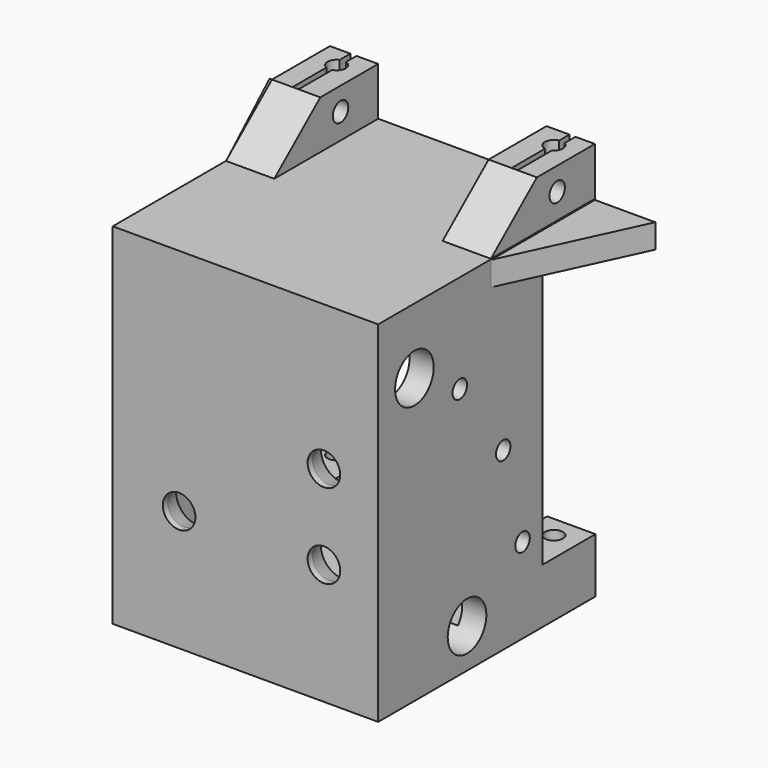
from build123d import *

# Parameters (mm, degrees)
CYLINDER144_R              = 1.6
CYLINDER144_DEPTH          = 15
FUSION079_ROLL_ANGLE       = -90
FUSION079_PLACEMENT_ANGLE  = -90
CYLINDER156_R              = 5.1
CYLINDER156_DEPTH          = 10
CYLINDER145_R              = 1.6
CYLINDER145_DEPTH          = 15
FUSION080_ROLL_ANGLE       = -90
FUSION080_PLACEMENT_ANGLE  = -90
CYLINDER147_R              = 4
CYLINDER147_DEPTH          = 44
CYLINDER152_R              = 1.5
CYLINDER152_DEPTH          = 55
CYLINDER165_R              = 1.5
CYLINDER165_DEPTH          = 55
CYLINDER160_R              = 1.5
CYLINDER160_DEPTH          = 55
CYLINDER166_R              = 4
CYLINDER166_DEPTH          = 44
BOX073_W                   = 1
BOX073_H                   = 15
BOX073_DEPTH               = 19
CYLINDER139_R              = 1.5
CYLINDER139_DEPTH          = 90
BOX072_W                   = 1
BOX072_H                   = 15
BOX072_DEPTH               = 19
CYLINDER138_R              = 1.5
CYLINDER138_DEPTH          = 90
CYLINDER140_R              = 1.6
CYLINDER140_DEPTH          = 10
EXTRUDE055_DEPTH           = 8
CYLINDER141_R              = 1.6
CYLINDER141_DEPTH          = 10
EXTRUDE056_DEPTH           = 8
BOX070_W                   = 4
BOX070_H                   = 45
BOX070_DEPTH               = 44
BOX069_W                   = 4
BOX069_H                   = 30
BOX069_DEPTH               = 54
BOX068_W                   = 4
BOX068_H                   = 30
BOX068_DEPTH               = 54
CYLINDER155_R              = 2.7
CYLINDER155_DEPTH          = 10
FUSION086_PLACEMENT_ANGLE  = 90
CYLINDER154_R              = 2.7
CYLINDER154_DEPTH          = 10
FUSION085_PLACEMENT_ANGLE  = 90
CYLINDER153_R              = 2.7
CYLINDER153_DEPTH          = 10
FUSION084_PLACEMENT_ANGLE  = 90
BOX067_W                   = 44
BOX067_H                   = 4
BOX067_DEPTH               = 54
CYLINDER164_R              = 12
CYLINDER164_DEPTH          = 10
BOX074_W                   = 8
BOX074_H                   = 12
BOX074_DEPTH               = 71
EXTRUDE057_DEPTH           = 8
EXTRUDE058_DEPTH           = 8
BOX071_W                   = 4
BOX071_H                   = 45
BOX071_DEPTH               = 44
EXTRUDE065_DEPTH           = 4
EXTRUDE066_DEPTH           = 4
EXTRUDE066_PLACEMENT_ANGLE = 180


with BuildPart() as cylinder144:
    # Cylinder144 → Cylinder144 (new body)
    with BuildSketch(Plane.XY):
        Circle(CYLINDER144_R)
    extrude(amount=CYLINDER144_DEPTH)


with BuildPart() as fusion079:
    # Cone015 → Cone015 (revolve)
    with BuildSketch(Plane(origin=(0, 0, 15), x_dir=(1, 0, 0), z_dir=(0, -1, 0))):
        Polygon((0, 0), (1.6, 0), (3, 3.5), (0, 3.5), align=None)
    revolve(axis=Axis((0, 0, 15), (0, 0, 1)))

    # Fusion079: union Cylinder144
    add(cylinder144.part)


with BuildPart() as fusion079_1:
    # Fusion079 roll: moved
    add(fusion079.part.rotate(Axis((0, 0, 0), (1, 0, 0)), FUSION079_ROLL_ANGLE))


with BuildPart() as fusion079_2:
    # Fusion079 placement: moved
    add(fusion079_1.part.moved(Location((80.6, 50.5, 66))).rotate(Axis((80.6, 50.5, 66), (0, 0, 1)), FUSION079_PLACEMENT_ANGLE))


with BuildPart() as cylinder156:
    # Cylinder156 → Cylinder156 (new body)
    with BuildSketch(Plane(origin=(91.8, 55.9, 45.7), x_dir=(0, 0, -1), z_dir=(1, 0, 0))):
        Circle(CYLINDER156_R)
    extrude(amount=CYLINDER156_DEPTH)


with BuildPart() as cylinder145:
    # Cylinder145 → Cylinder145 (new body)
    with BuildSketch(Plane.XY):
        Circle(CYLINDER145_R)
    extrude(amount=CYLINDER145_DEPTH)


with BuildPart() as fusion080:
    # Cone016 → Cone016 (revolve)
    with BuildSketch(Plane(origin=(0, 0, 15), x_dir=(1, 0, 0), z_dir=(0, -1, 0))):
        Polygon((0, 0), (1.6, 0), (3, 3.5), (0, 3.5), align=None)
    revolve(axis=Axis((0, 0, 15), (0, 0, 1)))

    # Fusion080: union Cylinder145
    add(cylinder145.part)


with BuildPart() as fusion080_1:
    # Fusion080 roll: moved
    add(fusion080.part.rotate(Axis((0, 0, 0), (1, 0, 0)), FUSION080_ROLL_ANGLE))


with BuildPart() as fusion080_2:
    # Fusion080 placement: moved
    add(fusion080_1.part.moved(Location((80.6, 61.3, 25.4))).rotate(Axis((80.6, 61.3, 25.4), (0, 0, 1)), FUSION080_PLACEMENT_ANGLE))


with BuildPart() as cylinder147:
    # Cylinder147 → Cylinder147 (new body)
    with BuildSketch(Plane(origin=(99, 61.4, 25.5), x_dir=(0, 0, -1), z_dir=(1, 0, 0))):
        Circle(CYLINDER147_R)
    extrude(amount=CYLINDER147_DEPTH)


with BuildPart() as cylinder152:
    # Cylinder152 → Cylinder152 (new body)
    with BuildSketch(Plane(origin=(92.7, 72.9, 33.1), x_dir=(0, 0, -1), z_dir=(1, 0, 0))):
        Circle(CYLINDER152_R)
    extrude(amount=CYLINDER152_DEPTH)


with BuildPart() as cylinder165:
    # Cylinder165 → Cylinder165 (new body)
    with BuildSketch(Plane(origin=(92.7, 68.9, 48.1), x_dir=(0, 0, -1), z_dir=(1, 0, 0))):
        Circle(CYLINDER165_R)
    extrude(amount=CYLINDER165_DEPTH)


with BuildPart() as cylinder160:
    # Cylinder160 → Cylinder160 (new body)
    with BuildSketch(Plane(origin=(92.1, 59.9, 60.7), x_dir=(0, 0, -1), z_dir=(1, 0, 0))):
        Circle(CYLINDER160_R)
    extrude(amount=CYLINDER160_DEPTH)


with BuildPart() as cylinder166:
    # Cylinder166 → Cylinder166 (new body)
    with BuildSketch(Plane(origin=(99, 50.5, 66.1), x_dir=(0, 0, -1), z_dir=(1, 0, 0))):
        Circle(CYLINDER166_R)
    extrude(amount=CYLINDER166_DEPTH)


with BuildPart() as box073:
    # Box073 → Box073 (new body)
    with BuildSketch(Plane(origin=(98.4, 76, 70.7), x_dir=(1, 0, 0), z_dir=(0, 0, 1))):
        with Locations((0.5, 7.5)):
            Rectangle(BOX073_W, BOX073_H)
    extrude(amount=BOX073_DEPTH)


with BuildPart() as cylinder139:
    # Cylinder139 → Cylinder139 (new body)
    with BuildSketch(Plane(origin=(99, 84.4, 19), x_dir=(1, 0, 0), z_dir=(0, 0, 1))):
        Circle(CYLINDER139_R)
    extrude(amount=CYLINDER139_DEPTH)


with BuildPart() as box072:
    # Box072 → Box072 (new body)
    with BuildSketch(Plane(origin=(134.7, 76, 70.7), x_dir=(1, 0, 0), z_dir=(0, 0, 1))):
        with Locations((0.5, 7.5)):
            Rectangle(BOX072_W, BOX072_H)
    extrude(amount=BOX072_DEPTH)


with BuildPart() as cylinder138:
    # Cylinder138 → Cylinder138 (new body)
    with BuildSketch(Plane(origin=(135, 84.4, 19), x_dir=(1, 0, 0), z_dir=(0, 0, 1))):
        Circle(CYLINDER138_R)
    extrude(amount=CYLINDER138_DEPTH)


with BuildPart() as cylinder140:
    # Cylinder140 → Cylinder140 (new body)
    with BuildSketch(Plane(origin=(129.8, 75.2, 81.2), x_dir=(0, 0, -1), z_dir=(1, 0, 0))):
        Circle(CYLINDER140_R)
    extrude(amount=CYLINDER140_DEPTH)


with BuildPart() as cut143:
    # Sketch045 → Extrude055 (new body)
    with BuildSketch(Plane.YZ):
        Polygon((83, 77), (83, 85), (71, 85), (61.465971, 77), align=None)
    extrude(amount=EXTRUDE055_DEPTH)


with BuildPart() as cut143_1:
    # Extrude055 placement: moved
    add(cut143.part.moved(Location((130.9, 0, 0))))

    # Cut143: cut Cylinder140
    add(cylinder140.part, mode=Mode.SUBTRACT)


with BuildPart() as cut143_2:
    # Cut143 placement: moved
    add(cut143_1.part.moved(Location((0, 5, 0))))


with BuildPart() as cylinder141:
    # Cylinder141 → Cylinder141 (new body)
    with BuildSketch(Plane(origin=(93.8, 75.2, 81.2), x_dir=(0, 0, -1), z_dir=(1, 0, 0))):
        Circle(CYLINDER141_R)
    extrude(amount=CYLINDER141_DEPTH)


with BuildPart() as cut142:
    # Sketch046 → Extrude056 (new body)
    with BuildSketch(Plane.YZ):
        Polygon((83, 77), (83, 85), (71, 85), (61.465971, 77), align=None)
    extrude(amount=EXTRUDE056_DEPTH)


with BuildPart() as cut142_1:
    # Extrude056 placement: moved
    add(cut142.part.moved(Location((95, 0, 0))))

    # Cut142: cut Cylinder141
    add(cylinder141.part, mode=Mode.SUBTRACT)


with BuildPart() as cut142_2:
    # Cut142 placement: moved
    add(cut142_1.part.moved(Location((0, 5, 0))))


with BuildPart() as box070:
    # Box070 → Box070 (new body)
    with BuildSketch(Plane(origin=(139, 43, 73), x_dir=(0, 0, 1), z_dir=(-1, 0, 0))):
        with Locations((2, 22.5)):
            Rectangle(BOX070_W, BOX070_H)
    extrude(amount=BOX070_DEPTH)


with BuildPart() as box069:
    # Box069 → Box069 (new body)
    with BuildSketch(Plane(origin=(135, 47, 19), x_dir=(1, 0, 0), z_dir=(0, 0, 1))):
        with Locations((2, 15)):
            Rectangle(BOX069_W, BOX069_H)
    extrude(amount=BOX069_DEPTH)


with BuildPart() as box068:
    # Box068 → Box068 (new body)
    with BuildSketch(Plane(origin=(95, 47, 19), x_dir=(1, 0, 0), z_dir=(0, 0, 1))):
        with Locations((2, 15)):
            Rectangle(BOX068_W, BOX068_H)
    extrude(amount=BOX068_DEPTH)


with BuildPart() as cone018:
    # Cone018 → Cone018 (revolve)
    with BuildSketch(Plane(origin=(0, 0, 10), x_dir=(1, 0, 0), z_dir=(0, -1, 0))):
        Polygon((0, 0), (2.7, 0), (3.7, 3), (0, 3), align=None)
    revolve(axis=Axis((0, 0, 10), (0, 0, 1)))


with BuildPart() as fusion086:
    # Cylinder155 → Cylinder155 (new body)
    with BuildSketch(Plane.XY):
        Circle(CYLINDER155_R)
    extrude(amount=CYLINDER155_DEPTH)

    # Fusion086: union Cone018
    add(cone018.part)


with BuildPart() as fusion086_1:
    # Fusion086 placement: moved
    add(fusion086.part.moved(Location((106, 34, 39))).rotate(Axis((106, 34, 39), (-1, 0, 0)), FUSION086_PLACEMENT_ANGLE))


with BuildPart() as cone017:
    # Cone017 → Cone017 (revolve)
    with BuildSketch(Plane(origin=(0, 0, 10), x_dir=(1, 0, 0), z_dir=(0, -1, 0))):
        Polygon((0, 0), (2.7, 0), (3.7, 3), (0, 3), align=None)
    revolve(axis=Axis((0, 0, 10), (0, 0, 1)))


with BuildPart() as fusion085:
    # Cylinder154 → Cylinder154 (new body)
    with BuildSketch(Plane.XY):
        Circle(CYLINDER154_R)
    extrude(amount=CYLINDER154_DEPTH)

    # Fusion085: union Cone017
    add(cone017.part)


with BuildPart() as fusion085_1:
    # Fusion085 placement: moved
    add(fusion085.part.moved(Location((130, 34, 39))).rotate(Axis((130, 34, 39), (-1, 0, 0)), FUSION085_PLACEMENT_ANGLE))


with BuildPart() as cone:
    # Cone → Cone (revolve)
    with BuildSketch(Plane(origin=(0, 0, 10), x_dir=(1, 0, 0), z_dir=(0, -1, 0))):
        Polygon((0, 0), (2.7, 0), (3.7, 3), (0, 3), align=None)
    revolve(axis=Axis((0, 0, 10), (0, 0, 1)))


with BuildPart() as fusion084:
    # Cylinder153 → Cylinder153 (new body)
    with BuildSketch(Plane.XY):
        Circle(CYLINDER153_R)
    extrude(amount=CYLINDER153_DEPTH)

    # Fusion084: union Cone
    add(cone.part)


with BuildPart() as fusion084_1:
    # Fusion084 placement: moved
    add(fusion084.part.moved(Location((130, 34, 53))).rotate(Axis((130, 34, 53), (-1, 0, 0)), FUSION084_PLACEMENT_ANGLE))


with BuildPart() as cut178:
    # Box067 → Box067 (new body)
    with BuildSketch(Plane(origin=(95, 43, 19), x_dir=(1, 0, 0), z_dir=(0, 0, 1))):
        with Locations((22, 2)):
            Rectangle(BOX067_W, BOX067_H)
    extrude(amount=BOX067_DEPTH)

    # Cut176: cut Fusion084
    add(fusion084_1.part, mode=Mode.SUBTRACT)

    # Cut177: cut Fusion085
    add(fusion085_1.part, mode=Mode.SUBTRACT)

    # Cut178: cut Fusion086
    add(fusion086_1.part, mode=Mode.SUBTRACT)


with BuildPart() as cylinder164:
    # Cylinder164 → Cylinder164 (new body)
    with BuildSketch(Plane(origin=(118.8, 72.9, 33.1), x_dir=(0, 0, -1), z_dir=(1, 0, 0))):
        Circle(CYLINDER164_R)
    extrude(amount=CYLINDER164_DEPTH)


with BuildPart() as box074:
    # Box074 → Box074 (new body)
    with BuildSketch(Plane(origin=(122.9, 77.6, -2.6), x_dir=(1, 0, 0), z_dir=(0, 0, 1))):
        with Locations((4, 6)):
            Rectangle(BOX074_W, BOX074_H)
    extrude(amount=BOX074_DEPTH)


with BuildPart() as extrude057:
    # Sketch047 → Extrude057 (new body)
    with BuildSketch(Plane.YZ):
        Polygon((83, 77), (83, 85), (71, 85), (61.465971, 77), align=None)
    extrude(amount=EXTRUDE057_DEPTH)


with BuildPart() as extrude057_1:
    # Extrude057 placement: moved
    add(extrude057.part.moved(Location((131, 5, -56.9))))


with BuildPart() as extrude058:
    # Sketch048 → Extrude058 (new body)
    with BuildSketch(Plane.YZ):
        Polygon((83, 77), (83, 85), (71, 85), (61.465971, 77), align=None)
    extrude(amount=EXTRUDE058_DEPTH)


with BuildPart() as extrude058_1:
    # Extrude058 placement: moved
    add(extrude058.part.moved(Location((95, 5, -56.9))))


with BuildPart() as fusion096:
    # Box071 → Box071 (new body)
    with BuildSketch(Plane(origin=(139, 43, 19), x_dir=(0, 0, 1), z_dir=(-1, 0, 0))):
        with Locations((2, 22.5)):
            Rectangle(BOX071_W, BOX071_H)
    extrude(amount=BOX071_DEPTH)

    # Fusion089: union Extrude057, Extrude058
    add(extrude057_1.part)
    add(extrude058_1.part)

    # Cut179: cut Box074
    add(box074.part, mode=Mode.SUBTRACT)

    # Cut188: cut Cylinder164
    add(cylinder164.part, mode=Mode.SUBTRACT)

    # Fusion096: union Box070, Box069, Box068, Cut178
    add(box070.part)
    add(box069.part)
    add(box068.part)
    add(cut178.part)


with BuildPart() as extrude065:
    # Sketch053 → Extrude065 (new body)
    with BuildSketch(Plane.XY):
        Polygon((95, 66.5), (85, 88), (95, 88), align=None)
    extrude(amount=EXTRUDE065_DEPTH)


with BuildPart() as extrude065_1:
    # Extrude065 placement: moved
    add(extrude065.part.moved(Location((0, 0, 73))))


with BuildPart() as cut200:
    # Sketch054 → Extrude066 (new body)
    with BuildSketch(Plane.XY):
        Polygon((95, 66.5), (85, 88), (95, 88), align=None)
    extrude(amount=EXTRUDE066_DEPTH)


with BuildPart() as cut200_1:
    # Extrude066 placement: moved
    add(cut200.part.moved(Location((234, -0.1, 76.9))).rotate(Axis((234, -0.1, 76.9), (0, 1, 0)), EXTRUDE066_PLACEMENT_ANGLE))

    # Fusion097: union Fusion096, Extrude065
    add(fusion096.part)
    add(extrude065_1.part)

    # Fusion098: union Cut143, Cut142
    add(cut143_2.part)
    add(cut142_2.part)

    # Cut189: cut Cylinder138
    add(cylinder138.part, mode=Mode.SUBTRACT)

    # Cut190: cut Box072
    add(box072.part, mode=Mode.SUBTRACT)

    # Cut191: cut Cylinder139
    add(cylinder139.part, mode=Mode.SUBTRACT)

    # Cut192: cut Box073
    add(box073.part, mode=Mode.SUBTRACT)

    # Cut193: cut Cylinder166
    add(cylinder166.part, mode=Mode.SUBTRACT)

    # Cut194: cut Cylinder160
    add(cylinder160.part, mode=Mode.SUBTRACT)

    # Cut195: cut Cylinder165
    add(cylinder165.part, mode=Mode.SUBTRACT)

    # Cut196: cut Cylinder152
    add(cylinder152.part, mode=Mode.SUBTRACT)

    # Cut197: cut Cylinder147
    add(cylinder147.part, mode=Mode.SUBTRACT)

    # Cut198: cut Fusion080
    add(fusion080_2.part, mode=Mode.SUBTRACT)

    # Cut199: cut Cylinder156
    add(cylinder156.part, mode=Mode.SUBTRACT)

    # Cut200: cut Fusion079
    add(fusion079_2.part, mode=Mode.SUBTRACT)


solid = cut200_1.part
